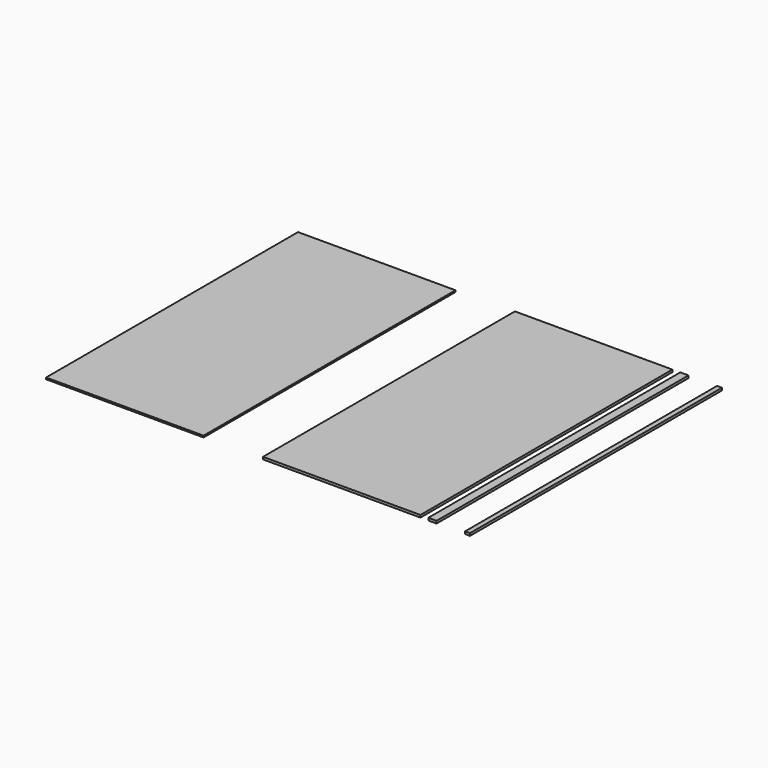
from build123d import *

# Parameters (mm, degrees)
F0_W     = 1219.2
F0_H     = 2438.4
F1_DEPTH = 18.25625
F2_W     = 63.5
F2_H     = 2438.4
F2_W_2   = 38.1
F3_DEPTH = 19.05
F4_DEPTH = 12.7


with BuildPart() as f1:
    # F0 (on Top) → F1 (new body)
    with BuildSketch(Plane.XY):
        with Locations((-609.6, 1219.2)):
            Rectangle(F0_W, F0_H)
    extrude(amount=F1_DEPTH)


with BuildPart() as f3:
    # F2 (on Top) → F3 (new body)
    with BuildSketch(Plane.XY):
        with Locations((93.001991, 1219.2)):
            Rectangle(F2_W, F2_H)
        with Locations((364.584205, 1219.2)):
            Rectangle(F2_W_2, F2_H)
    extrude(amount=F3_DEPTH)


with BuildPart() as f4:
    # F0 (on Top) → F4 (new body)
    with BuildSketch(Plane.XY):
        with Locations((-2289.216096, 1219.2)):
            Rectangle(F0_W, F0_H)
    extrude(amount=F4_DEPTH)


solid = Compound([f1.part, f3.part, f4.part])
